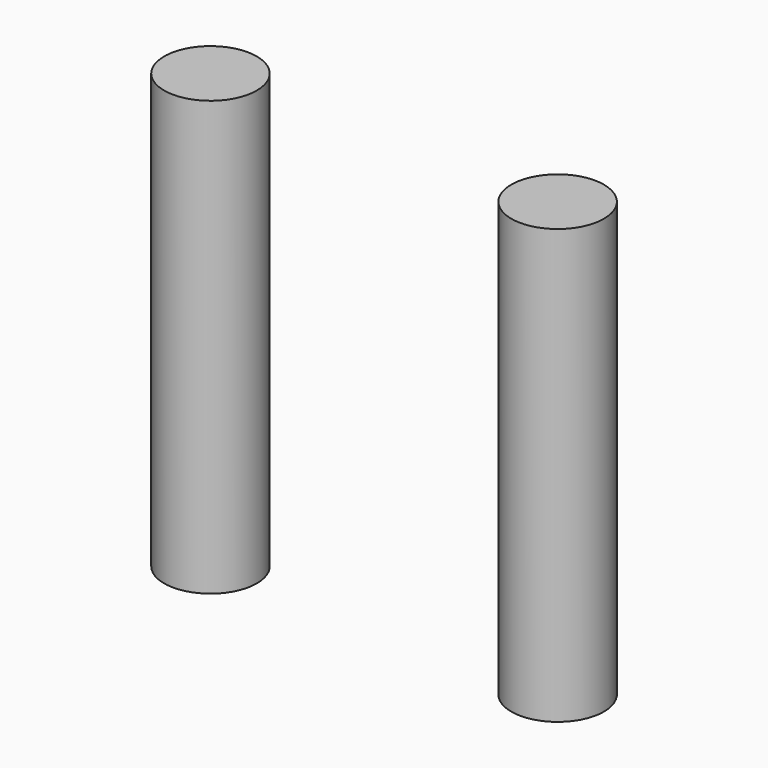
from build123d import *

# Parameters (mm, degrees)
CYLINDER033_R     = 1.6
CYLINDER033_DEPTH = 15
CYLINDER032_R     = 1.6
CYLINDER032_DEPTH = 15


with BuildPart() as cylinder033:
    # Cylinder033 → Cylinder033 (new body)
    with BuildSketch(Plane.XY):
        Circle(CYLINDER033_R)
    extrude(amount=CYLINDER033_DEPTH)


with BuildPart() as fusion068:
    # Cylinder032 → Cylinder032 (new body)
    with BuildSketch(Plane(origin=(12, 0, 0), x_dir=(1, 0, 0), z_dir=(0, 0, 1))):
        Circle(CYLINDER032_R)
    extrude(amount=CYLINDER032_DEPTH)

    # Fusion068: union Cylinder033
    add(cylinder033.part)


with BuildPart() as fusion068_1:
    # Fusion068 placement: moved
    add(fusion068.part.moved(Location((1.5, 10.5, 0))))


solid = fusion068_1.part
